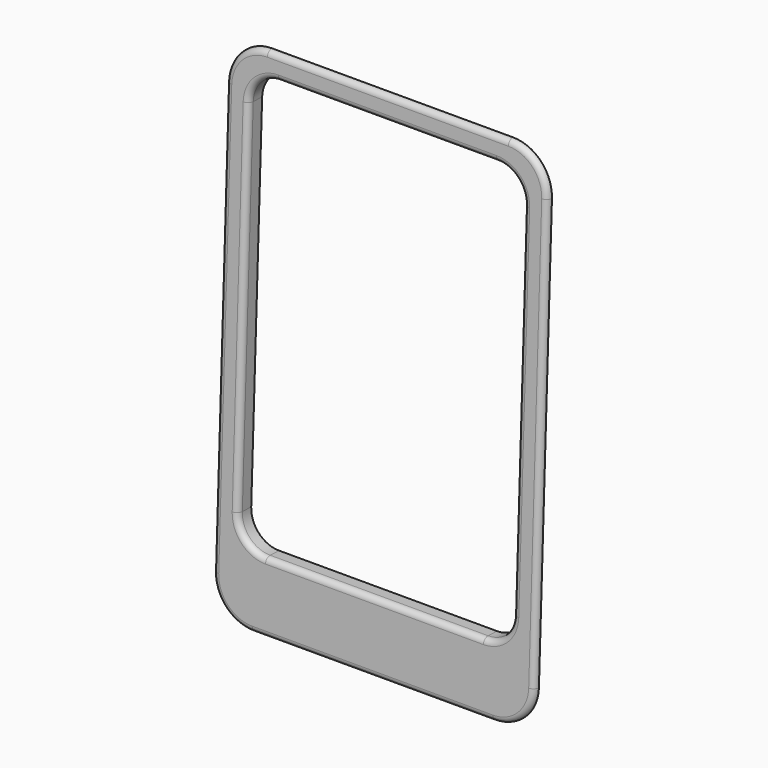
from build123d import *

# Parameters (mm, degrees)
BOX027_W          = 24
BOX027_H          = 6
BOX027_DEPTH      = 36
BOX027_ROLL_ANGLE = -2.2
FILLET029_R       = 2.5
BOX028_W          = 26
BOX028_H          = 1
BOX028_DEPTH      = 42
BOX028_ROLL_ANGLE = -2.2
FILLET030_R       = 3
BOX026_W          = 28
BOX026_H          = 0.5
BOX026_DEPTH      = 44
BOX026_ROLL_ANGLE = -2.2
FILLET028_R       = 3.5
FILLET031_R       = 0.49


with BuildPart() as fillet029:
    # Box027 → Box027 (new body)
    with BuildSketch(Plane.XY):
        with Locations((12, 3)):
            Rectangle(BOX027_W, BOX027_H)
    extrude(amount=BOX027_DEPTH)


with BuildPart() as fillet029_1:
    # Box027 roll: moved
    add(fillet029.part.rotate(Axis((0, 0, 0), (1, 0, 0)), BOX027_ROLL_ANGLE))


with BuildPart() as fillet029_2:
    # Box027 placement: moved
    add(fillet029_1.part.moved(Location((89, 4.3, 74))))

    # Fillet029
    fillet029_edges = [fillet029_2.edges().sort_by_distance(p)[0] for p in [
        (89, 8.67975, 109.858302),
        (89, 7.297789, 73.884837),
        (113, 8.67975, 109.858302),
        (113, 7.297789, 73.884837),
    ]]
    fillet(fillet029_edges, radius=FILLET029_R)


with BuildPart() as fillet029_3:
    # Fillet029 placement: moved
    add(fillet029_2.part.moved(Location((-1, -2, 2))))


with BuildPart() as fillet030:
    # Box028 → Box028 (new body)
    with BuildSketch(Plane.XY):
        with Locations((13, 0.5)):
            Rectangle(BOX028_W, BOX028_H)
    extrude(amount=BOX028_DEPTH)


with BuildPart() as fillet030_1:
    # Box028 roll: moved
    add(fillet030.part.rotate(Axis((0, 0, 0), (1, 0, 0)), BOX028_ROLL_ANGLE))


with BuildPart() as fillet030_2:
    # Box028 placement: moved
    add(fillet030_1.part.moved(Location((90, 4.3, 71))))

    # Fillet030
    fillet030_edges = [fillet030_2.edges().sort_by_distance(p)[0] for p in [
        (90, 6.411919, 112.949849),
        (90, 4.799631, 70.980806),
        (116, 6.411919, 112.949849),
        (116, 4.799631, 70.980806),
    ]]
    fillet(fillet030_edges, radius=FILLET030_R)


with BuildPart() as fillet030_3:
    # Fillet030 placement: moved
    add(fillet030_2.part.moved(Location((-3, -1.5, 0))))


with BuildPart() as fillet031:
    # Box026 → Box026 (new body)
    with BuildSketch(Plane.XY):
        with Locations((14, 0.25)):
            Rectangle(BOX026_W, BOX026_H)
    extrude(amount=BOX026_DEPTH)


with BuildPart() as fillet031_1:
    # Box026 roll: moved
    add(fillet031.part.rotate(Axis((0, 0, 0), (1, 0, 0)), BOX026_ROLL_ANGLE))


with BuildPart() as fillet031_2:
    # Box026 placement: moved
    add(fillet031_1.part.moved(Location((89, 4.3, 70))))

    # Fillet028
    fillet028_edges = [fillet031_2.edges().sort_by_distance(p)[0] for p in [
        (89, 6.238879, 113.957971),
        (89, 4.549816, 69.990403),
        (117, 6.238879, 113.957971),
        (117, 4.549816, 69.990403),
    ]]
    fillet(fillet028_edges, radius=FILLET028_R)


with BuildPart() as fillet031_3:
    # Fillet028 placement: moved
    add(fillet031_2.part.moved(Location((-3, -2, 0))))

    # Fusion003: union Fillet030
    add(fillet030_3.part)

    # Cut018: cut Fillet029
    add(fillet029_3.part, mode=Mode.SUBTRACT)

    # Fillet031
    fillet031_edges = [fillet031_3.edges().sort_by_distance(p)[0] for p in [
        (86, 3.144532, 91.983784),
        (88, 3.221138, 93.977891),
    ]]
    fillet(fillet031_edges, radius=FILLET031_R)


solid = fillet031_3.part
